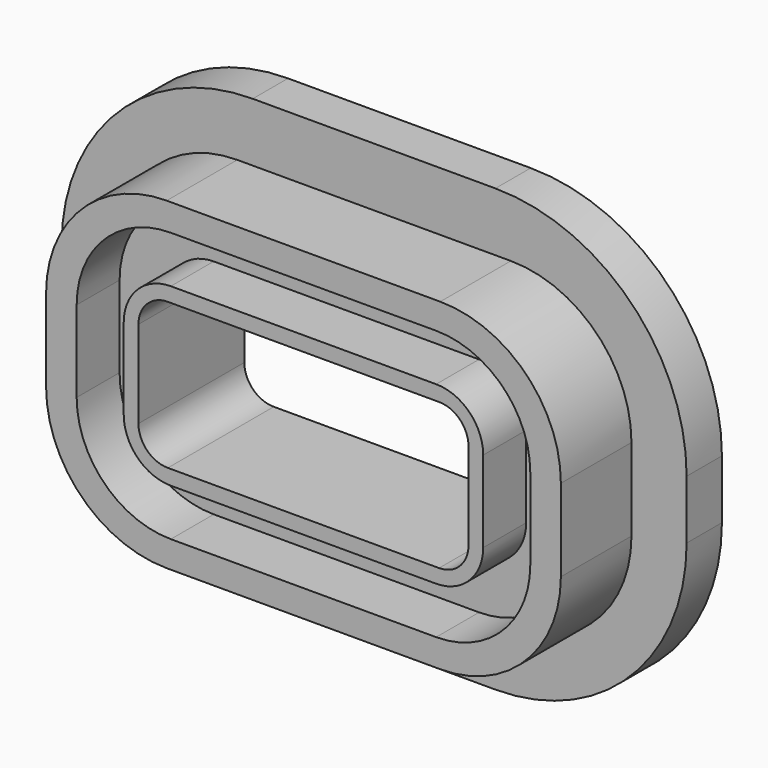
from build123d import *

# Parameters (mm, degrees)
F1_DEPTH = 3.81
F3_DEPTH = 7.62
F5_DEPTH = 11.431
F7_DEPTH = 4.63296


with BuildPart() as f1:
    # F0 (on Front) → F1 (new body)
    with BuildSketch(Plane.XZ):
        with BuildLine():
            ThreePointArc((-26.9875, -2.54), (-22.1518329574, -14.2143329574), (-10.4775, -19.05))
            Line((-10.4775, -19.05), (10.4775, -19.05))
            ThreePointArc((10.4775, -19.05), (22.1518329574, -14.2143329574), (26.9875, -2.54))
            Line((26.9875, -2.54), (26.9875, 2.54))
            ThreePointArc((26.9875, 2.54), (22.1518329574, 14.2143329574), (10.4775, 19.05))
            Line((10.4775, 19.05), (-10.4775, 19.05))
            ThreePointArc((-10.4775, 19.05), (-22.1518329574, 14.2143329574), (-26.9875, 2.54))
            Line((-26.9875, 2.54), (-26.9875, -2.54))
        make_face()
    extrude(amount=F1_DEPTH)

    # F2 (on face) → F3 (join)
    with BuildSketch(Plane.XZ.offset(3.81)):
        with BuildLine():
            ThreePointArc((-22.225, -3.556), (-19.1748100193, -10.9198100193), (-11.811, -13.97))
            Line((-11.811, -13.97), (11.811, -13.97))
            ThreePointArc((11.811, -13.97), (19.1748100193, -10.9198100193), (22.225, -3.556))
            Line((22.225, -3.556), (22.225, 3.556))
            ThreePointArc((22.225, 3.556), (19.1748100193, 10.9198100193), (11.811, 13.97))
            Line((11.811, 13.97), (-11.811, 13.97))
            ThreePointArc((-11.811, 13.97), (-19.1748100193, 10.9198100193), (-22.225, 3.556))
            Line((-22.225, 3.556), (-22.225, -3.556))
        make_face()
    extrude(amount=F3_DEPTH)

    # F4 (on face) → F5 (cut, through all)
    with BuildSketch(Plane.XZ.offset(11.43)):
        with BuildLine():
            ThreePointArc((-14.2494, -3.7719), (-13.5054512242, -5.5679512242), (-11.7094, -6.3119))
            Line((-11.7094, -6.3119), (11.7094, -6.3119))
            ThreePointArc((11.7094, -6.3119), (13.5054512242, -5.5679512242), (14.2494, -3.7719))
            Line((14.2494, -3.7719), (14.2494, 3.7719))
            ThreePointArc((14.2494, 3.7719), (13.5054512242, 5.5679512242), (11.7094, 6.3119))
            Line((11.7094, 6.3119), (-11.7094, 6.3119))
            ThreePointArc((-11.7094, 6.3119), (-13.5054512242, 5.5679512242), (-14.2494, 3.7719))
            Line((-14.2494, 3.7719), (-14.2494, -3.7719))
        make_face()
        with BuildLine():
            ThreePointArc((-14.2494, -3.7719), (-13.5054512242, -5.5679512242), (-11.7094, -6.3119))
            Line((-11.7094, -6.3119), (11.7094, -6.3119))
            ThreePointArc((11.7094, -6.3119), (13.5054512242, -5.5679512242), (14.2494, -3.7719))
            Line((14.2494, -3.7719), (14.2494, 3.7719))
            ThreePointArc((14.2494, 3.7719), (13.5054512242, 5.5679512242), (11.7094, 6.3119))
            Line((11.7094, 6.3119), (-11.7094, 6.3119))
            ThreePointArc((-11.7094, 6.3119), (-13.5054512242, 5.5679512242), (-14.2494, 3.7719))
            Line((-14.2494, 3.7719), (-14.2494, -3.7719))
        make_face()
    extrude(amount=-F5_DEPTH, mode=Mode.SUBTRACT)

    # F6 (on face) → F7 (cut)
    with BuildSketch(Plane.XZ.offset(11.43)):
        with BuildLine():
            Line((11.4554, 11.6459), (-11.4554, 11.6459))
            ThreePointArc((-11.4554, 11.6459), (-17.2027639175, 9.2652639175), (-19.5834, 3.5179))
            Line((-19.5834, 3.5179), (-19.5834, -3.5179))
            ThreePointArc((-19.5834, -3.5179), (-17.2027639175, -9.2652639175), (-11.4554, -11.6459))
            Line((-11.4554, -11.6459), (11.4554, -11.6459))
            ThreePointArc((11.4554, -11.6459), (17.2027639175, -9.2652639175), (19.5834, -3.5179))
            Line((19.5834, -3.5179), (19.5834, 3.5179))
            ThreePointArc((19.5834, 3.5179), (17.2027639175, 9.2652639175), (11.4554, 11.6459))
        make_face()
        with BuildLine():
            Line((11.4554, -7.5819), (-11.4554, -7.5819))
            ThreePointArc((-11.4554, -7.5819), (-14.3290819587, -6.3915819587), (-15.5194, -3.5179))
            Line((-15.5194, -3.5179), (-15.5194, 3.5179))
            ThreePointArc((-15.5194, 3.5179), (-14.3290819587, 6.3915819587), (-11.4554, 7.5819))
            Line((-11.4554, 7.5819), (11.4554, 7.5819))
            ThreePointArc((11.4554, 7.5819), (14.3290819587, 6.3915819587), (15.5194, 3.5179))
            Line((15.5194, 3.5179), (15.5194, -3.5179))
            ThreePointArc((15.5194, -3.5179), (14.3290819587, -6.3915819587), (11.4554, -7.5819))
        make_face(mode=Mode.SUBTRACT)
    extrude(amount=-F7_DEPTH, mode=Mode.SUBTRACT)


solid = f1.part
